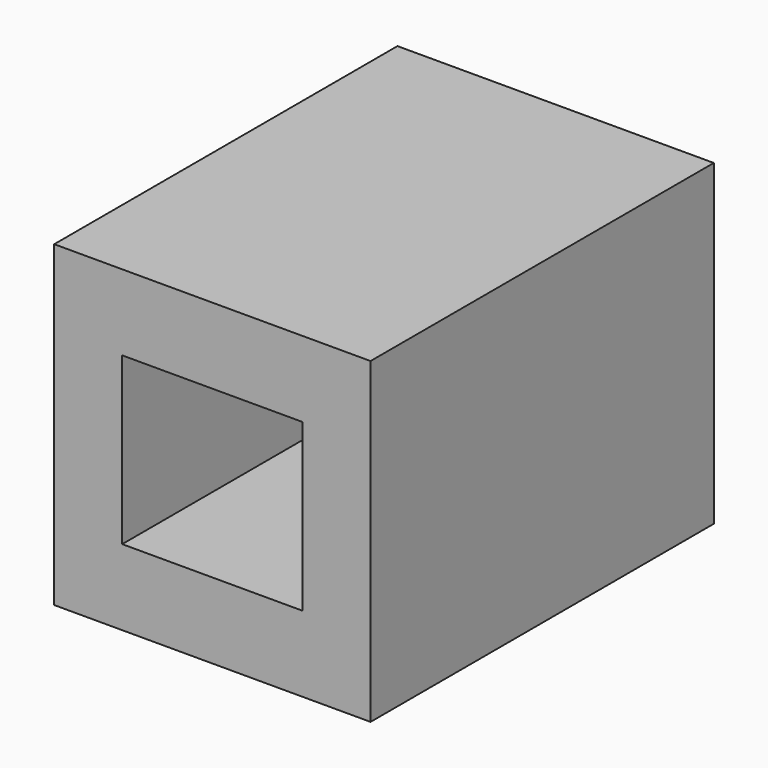
from build123d import *

# Parameters (mm, degrees)
F0_W     = 153.35077
F0_H     = 154.018536
F0_W_2   = 87.434582
F0_H_2   = 80.570326
F1_DEPTH = 35
F2_DEPTH = 208


with BuildPart() as f1:
    # F0 (on Front) → F1 (new body)
    with BuildSketch(Plane.XZ):
        Rectangle(F0_W, F0_H)
        Rectangle(F0_W_2, F0_H_2, mode=Mode.SUBTRACT)
    extrude(amount=F1_DEPTH)

    # F0 (on Front) → F2 (join)
    with BuildSketch(Plane.XZ):
        Rectangle(F0_W, F0_H)
        Rectangle(F0_W_2, F0_H_2, mode=Mode.SUBTRACT)
    extrude(amount=F2_DEPTH)


solid = f1.part
